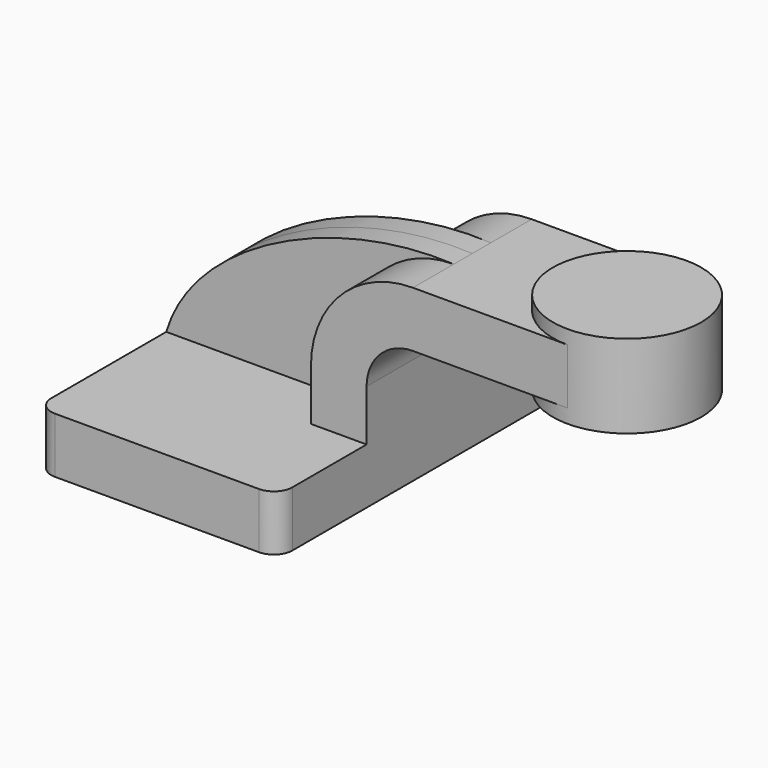
from build123d import *

# Parameters (mm, degrees)
F1_DEPTH = 63.5
F2_DEPTH = 25.4
F3_DEPTH = 7.9375
F0_W     = 25.4
F0_H     = 19.05
F4_DEPTH = 25.4
F6_R     = 6.35


with BuildPart() as f1:
    # F0 (on Front) → F1 (new body, symmetric)
    with BuildSketch(Plane.XZ):
        Polygon((41.275, -9.525), (41.275, 9.525), (22.225, 9.525), (-41.275, 9.525), (-41.275, -9.525), align=None)
    extrude(amount=F1_DEPTH, both=True)

    # F0 (on Front) → F2 (join, symmetric)
    with BuildSketch(Plane.XZ):
        with BuildLine():
            Line((22.225, 9.525), (41.275, 9.525))
            Line((41.275, 9.525), (41.275, 27.0002))
            ThreePointArc((41.275, 27.0002), (45.9246798487, 38.2255201513), (57.15, 42.8752))
            Line((57.15, 42.8752), (84.7223362398, 42.8752))
            Line((84.7223362398, 42.8752), (84.7223362398, 61.9252))
            Line((84.7223362398, 61.9252), (57.15, 61.9252))
            ThreePointArc((57.15, 61.9252), (32.4542956671, 51.6959043329), (22.225, 27.0002))
            Line((22.225, 27.0002), (22.225, 9.525))
        make_face()
    extrude(amount=F2_DEPTH, both=True)

    # F0 (on Front) → F3 (join, symmetric)
    with BuildSketch(Plane.XZ):
        with BuildLine():
            Line((-41.275, 9.525), (22.225, 9.525))
            Line((22.225, 9.525), (22.225, 27.0002))
            ThreePointArc((22.225, 27.0002), (32.4542956671, 51.6959043329), (57.15, 61.9252))
            add(Edge.make_bspline(
                [(-41.275, 9.525), (-31.9519031348, 41.2950287538), (16.3025462672, 64.0494193526), (57.15, 61.9252)],
                knots=[0, 0, 0, 0, 111.5045361635, 111.5045361635, 111.5045361635, 111.5045361635], degree=3))
        make_face()
    extrude(amount=F3_DEPTH, both=True)

    # F0 (on Front) → F4 (join, symmetric)
    with BuildSketch(Plane.XZ):
        with Locations((97.4223362398, 52.4002)):
            Rectangle(F0_W, F0_H)
    extrude(amount=F4_DEPTH, both=True)

    # F0 (on Front) → F5 (revolve)
    with BuildSketch(Plane.XZ):
        Polygon((110.1223362398, 61.9252), (110.1223362398, 42.8752), (110.1223362398, 38.1), (135.5223362398, 38.1), (135.5223362398, 66.675), (110.1223362398, 66.675), align=None)
    revolve(axis=Axis((110.1223362398, 0, 52.3875), (0, 0, 1)))

    # F6
    f6_edges = [f1.edges().sort_by_distance(p)[0] for p in [
        (-41.275, -63.5, 0),
        (41.275, -63.5, 0),
        (41.275, 63.5, 0),
        (-41.275, 63.5, 0),
    ]]
    fillet(f6_edges, radius=F6_R)


solid = f1.part
